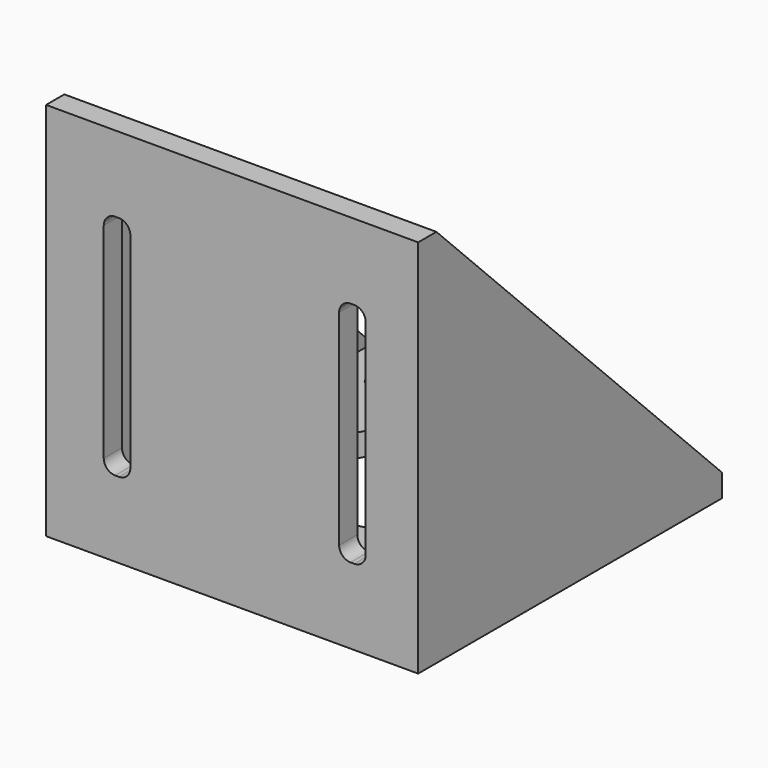
from build123d import *

# Parameters (mm, degrees)
F0_W          = 17
F0_H          = 4
F1_DEPTH      = 50
F0_R          = 1.75
F0_R_2        = 11.5
F0_W_2        = 13
F2_DEPTH      = 3
F4_DEPTH      = 5
F4_DEPTH_BACK = 50
F6_DEPTH      = 3


with BuildPart() as f1:
    # F0 (on Top) → F1 (new body)
    with BuildSketch(Plane.XY):
        Polygon((-21.5, -21.5), (-21.5, 21.5), (-24.5, 21.5), (-24.5, -25.5), (-21.5, -25.5), align=None)
        Polygon((24.5, -25.5), (21.5, -25.5), (8.5, -25.5), (-8.5, -25.5), (-21.5, -25.5), (-24.5, -25.5), (-24.5, -28.5), (24.5, -28.5), align=None)
        Polygon((24.5, 21.5), (21.5, 21.5), (21.5, -21.5), (21.5, -25.5), (24.5, -25.5), align=None)
        with Locations((0, -23.5)):
            Rectangle(F0_W, F0_H)
    extrude(amount=F1_DEPTH)

    # F0 (on Top) → F2 (join)
    with BuildSketch(Plane.XY):
        Polygon((21.5, -21.5), (21.5, 21.5), (-21.5, 21.5), (-21.5, -21.5), (-8.5, -21.5), (8.5, -21.5), align=None)
        with Locations((-15.5, -15.5)):
            Circle(F0_R, mode=Mode.SUBTRACT)
        with Locations((15.5, -15.5)):
            Circle(F0_R, mode=Mode.SUBTRACT)
        Circle(F0_R_2, mode=Mode.SUBTRACT)
        with Locations((-15.5, 15.5)):
            Circle(F0_R, mode=Mode.SUBTRACT)
        with Locations((15.5, 15.5)):
            Circle(F0_R, mode=Mode.SUBTRACT)
        with Locations((15, -23.5)):
            Rectangle(F0_W_2, F0_H)
        with Locations((-15, -23.5)):
            Rectangle(F0_W_2, F0_H)
    extrude(amount=F2_DEPTH)

    # F3 (on face) → F4 (cut, two sides)
    with BuildSketch(Plane(origin=(21.5, 0, 0), x_dir=(0, -1, 0), z_dir=(-1, 0, 0))) as f4_sk:
        Polygon((-21.5, 3), (25.5, 50), (-21.5, 50), align=None)
    extrude(amount=-F4_DEPTH, mode=Mode.SUBTRACT)
    extrude(f4_sk.sketch, amount=F4_DEPTH_BACK, mode=Mode.SUBTRACT)

    # F5 (on face) → F6 (cut)
    with BuildSketch(Plane.XZ.offset(28.5)):
        with BuildLine():
            ThreePointArc((17.5943711698, 38.5), (17.1550313416, 39.5606601718), (16.0943711698, 40))
            Line((16.0943711698, 40), (15.5943711698, 40))
            ThreePointArc((15.5943711698, 40), (14.533710998, 39.5606601718), (14.0943711698, 38.5))
            Line((14.0943711698, 38.5), (14.0943711698, 11.5))
            ThreePointArc((14.0943711698, 11.5), (14.533710998, 10.4393398282), (15.5943711698, 10))
            Line((15.5943711698, 10), (16.0943711698, 10))
            ThreePointArc((16.0943711698, 10), (17.1550313416, 10.4393398282), (17.5943711698, 11.5))
            Line((17.5943711698, 11.5), (17.5943711698, 38.5))
        make_face()
        with BuildLine():
            Line((-13.4056288302, 11.5), (-13.4056288302, 38.5))
            ThreePointArc((-13.4056288302, 38.5), (-13.8449686584, 39.5606601718), (-14.9056288302, 40))
            Line((-14.9056288302, 40), (-15.4056288302, 40))
            ThreePointArc((-15.4056288302, 40), (-16.466289002, 39.5606601718), (-16.9056288302, 38.5))
            Line((-16.9056288302, 38.5), (-16.9056288302, 11.5))
            ThreePointArc((-16.9056288302, 11.5), (-16.466289002, 10.4393398282), (-15.4056288302, 10))
            Line((-15.4056288302, 10), (-14.9056288302, 10))
            ThreePointArc((-14.9056288302, 10), (-13.8449686584, 10.4393398282), (-13.4056288302, 11.5))
        make_face()
    extrude(amount=-F6_DEPTH, mode=Mode.SUBTRACT)


solid = f1.part
